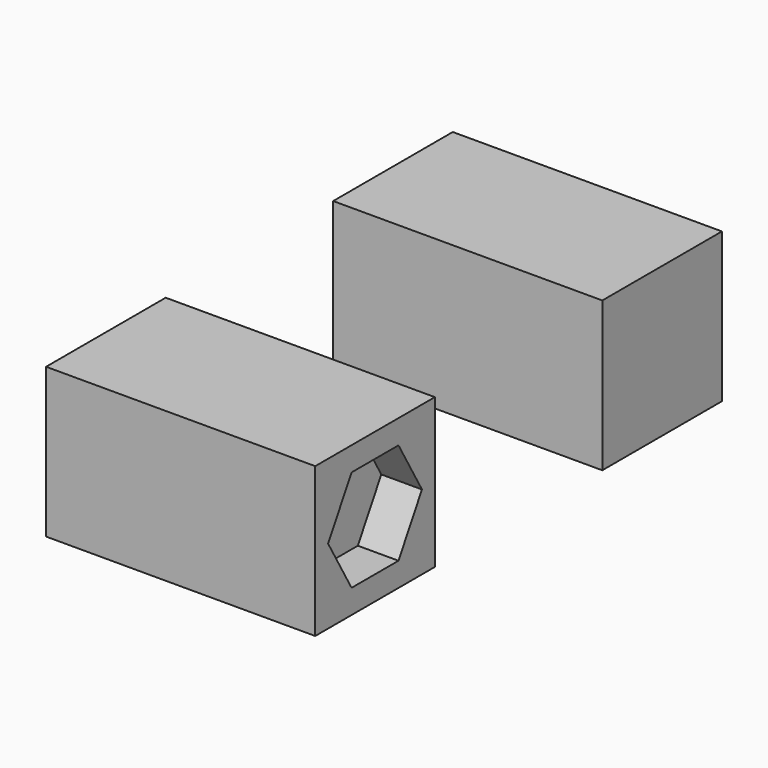
from build123d import *

# Parameters (mm, degrees)
F0_W     = 45
F0_H     = 25
F1_DEPTH = 25
F2_R     = 5.1
F3_DEPTH = 25
F8_DEPTH = 6.8


with BuildPart() as f1:
    # F0 (on Top) → F1 (new body)
    with BuildSketch(Plane.XY):
        with Locations((12.4448985606, -10.4952260852)):
            Rectangle(F0_W, F0_H)
    extrude(amount=F1_DEPTH)

    # F2 (on face) → F3 (cut)
    with BuildSketch(Plane(origin=(-10.0551014394, 0, 0), x_dir=(0, -1, 0), z_dir=(-1, 0, 0))):
        with Locations((10.4952260852, 12.5)):
            Circle(F2_R)
    extrude(amount=-F3_DEPTH, mode=Mode.SUBTRACT)


with BuildPart() as f4_1:
    # F4: copy of F1
    add(f1.part.moved(Location((0, 72, 0))))


with BuildPart() as f7_1:
    # F7: copy of F1
    add(f1.part.moved(Location((0, 60, 0))))


with BuildPart() as f1_1:
    add(f1.part)

    # F5 (on face) → F8 (cut)
    with BuildSketch(Plane.YZ.offset(34.9448985606)):
        Polygon((-0.6860450117, 12.5), (-5.5906355484, 20.995), (-15.399816622, 20.995), (-20.3044071587, 12.5), (-15.399816622, 4.005), (-5.5906355484, 4.005), align=None)
    extrude(amount=-F8_DEPTH, mode=Mode.SUBTRACT)


with BuildPart() as f9_1:
    # F9: copy of F1
    add(f1_1.part.moved(Location((0, -50, 0))))


solid = Compound([f7_1.part, f1_1.part])
